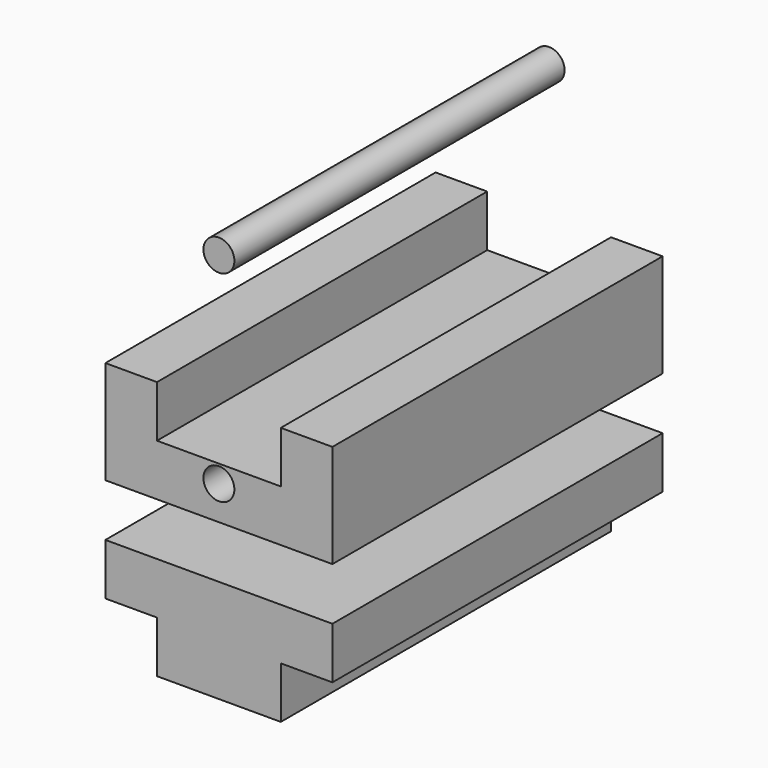
from build123d import *

# Parameters (mm, degrees)
F1_DEPTH = 50.8
F2_R     = 1.905
F3_DEPTH = 50.8
F0_R     = 1.905
F4_DEPTH = 50.8
F5_DEPTH = 50.8
F6_R     = 1.905
F7_DEPTH = 50.8


with BuildPart() as f1:
    # F0 (on Front) → F1 (new body)
    with BuildSketch(Plane.XZ):
        Polygon((7.62, 0), (0, 0), (-7.62, 0), (-7.62, 6.35), (-13.97, 6.35), (-13.97, -6.35), (0, -6.35), (13.97, -6.35), (13.97, 6.35), (7.62, 6.35), align=None)
    extrude(amount=F1_DEPTH)

    # F2 (on face) → F3 (cut)
    with BuildSketch(Plane.XZ.offset(50.8)):
        with Locations((0, -3.175)):
            Circle(F2_R)
    extrude(amount=-F3_DEPTH, mode=Mode.SUBTRACT)

    # F0 (on Front) → F4 (join)
    with BuildSketch(Plane.XZ):
        Polygon((13.97, -12.813103), (0, -12.813103), (-13.97, -12.813103), (-13.97, -19.163103), (-7.62, -19.163103), (-7.62, -25.513103), (7.62, -25.513103), (7.62, -19.163103), (13.97, -19.163103), align=None)
        Polygon((7.62, 0), (0, 0), (-7.62, 0), (-7.62, 6.35), (-13.97, 6.35), (-13.97, -6.35), (0, -6.35), (13.97, -6.35), (13.97, 6.35), (7.62, 6.35), align=None)
        with Locations((0, 22.583468)):
            Circle(F0_R)
    extrude(amount=F4_DEPTH)

    # F0 (on Front) → F5 (join)
    with BuildSketch(Plane.XZ):
        with Locations((0, 22.583468)):
            Circle(F0_R)
    extrude(amount=F5_DEPTH)

    # F6 (on face) → F7 (cut)
    with BuildSketch(Plane(origin=(0, 0, 0), x_dir=(-1, 0, 0), z_dir=(0, 1, 0))):
        with Locations((0, -2.181896)):
            Circle(F6_R)
    extrude(amount=-F7_DEPTH, mode=Mode.SUBTRACT)


solid = f1.part
